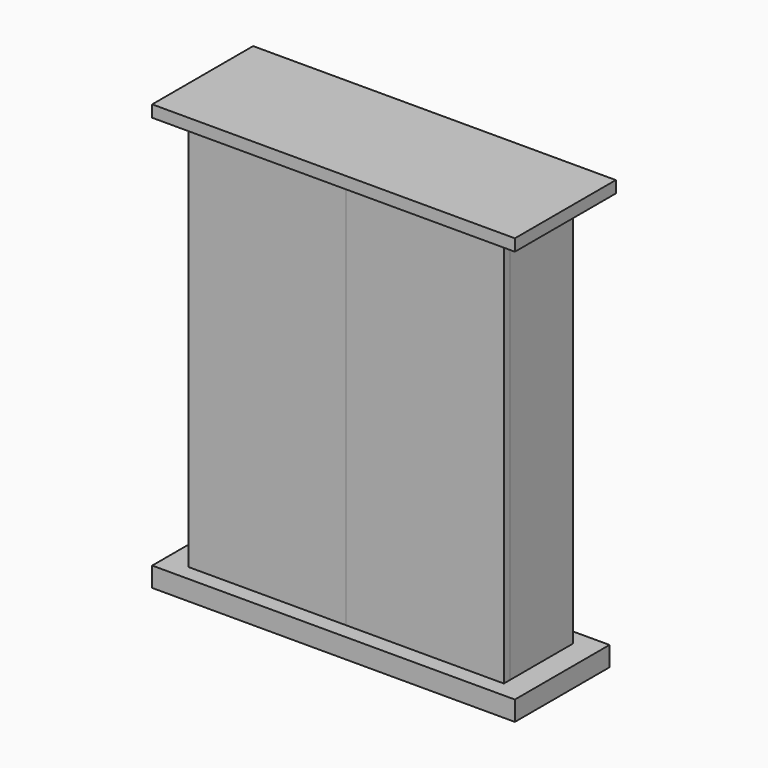
from build123d import *

# Parameters (mm, degrees)
F0_W      = 400
F0_H      = 490
F1_DEPTH  = 100
F2_T      = -10
F4_START  = 10
F3_W      = 460
F3_H      = 160
F4_DEPTH  = 15
F1_FACE_W = 400
F1_FACE_H = 100
F4_FACE_W = 460
F4_FACE_H = 160
F6_W      = 460
F6_H      = 150
F6_W_2    = 400
F6_H_2    = 100
F7_DEPTH  = 25
F8_W      = 190
F8_H      = 470
F9_DEPTH  = 10
F10_DEPTH = 10


with BuildPart() as f1:
    # F0 (on Front) → F1 (new body)
    with BuildSketch(Plane.XZ):
        with Locations((0, 91.1197658628)):
            Rectangle(F0_W, F0_H)
    extrude(amount=F1_DEPTH)

    # F2
    f2_openings = [f1.faces().sort_by_distance(p)[0] for p in [
        (0, -100, 91.119766),
    ]]
    offset(amount=F2_T, openings=f2_openings)

    # F6 (on face) → F7 (join)
    with BuildSketch(Plane(origin=(0, 0, -153.8802341372), x_dir=(1, 0, 0), z_dir=(0, 0, -1))):
        with Locations((0, 55)):
            Rectangle(F6_W, F6_H)
        with Locations((0, 50)):
            Rectangle(F6_W_2, F6_H_2, mode=Mode.SUBTRACT)
        with Locations((0, 50)):
            Rectangle(F6_W_2, F6_H_2)
    extrude(amount=F7_DEPTH)


with BuildPart() as f4:
    # F3 (on face) → F4 (new body)
    with BuildSketch(Plane.XY.offset(336.1197658628).offset(F4_START)):
        with Locations((0, -50)):
            Rectangle(F3_W, F3_H)
    extrude(amount=F4_DEPTH)

    # F1_face (on face) → F5 section 0
    with BuildSketch(Plane(origin=(0, -50, 336.1197658628), x_dir=(1, 0, 0), z_dir=(0, 0, 1))):
        Rectangle(F1_FACE_W, F1_FACE_H)
    # F4_face (on face) → F5 section 1
    with BuildSketch(Plane(origin=(0, -50, 346.1197658628), x_dir=(1, 0, 0), z_dir=(0, 0, -1))):
        Rectangle(F4_FACE_W, F4_FACE_H)
    loft()


with BuildPart() as f9:
    # F8 (on face) → F9 (new body)
    with BuildSketch(Plane.XZ.offset(100)):
        Polygon((200, 336.1197658628), (0, 336.1197658628), (0, 326.1197658628), (190, 326.1197658628), (190, -143.8802341372), (0, -143.8802341372), (0, -153.8802341372), (200, -153.8802341372), align=None)
        with Locations((95, 91.1197658628)):
            Rectangle(F8_W, F8_H)
    extrude(amount=F9_DEPTH)


with BuildPart() as f10:
    # F8 (on face) → F10 (new body)
    with BuildSketch(Plane.XZ.offset(100)):
        with Locations((-95, 91.1197658628)):
            Rectangle(F8_W, F8_H)
        Polygon((0, 326.1197658628), (0, 336.1197658628), (-200, 336.1197658628), (-200, -153.8802341372), (0, -153.8802341372), (0, -143.8802341372), (-190, -143.8802341372), (-190, 326.1197658628), align=None)
    extrude(amount=F10_DEPTH)


solid = Compound([f1.part, f4.part, f9.part, f10.part])
